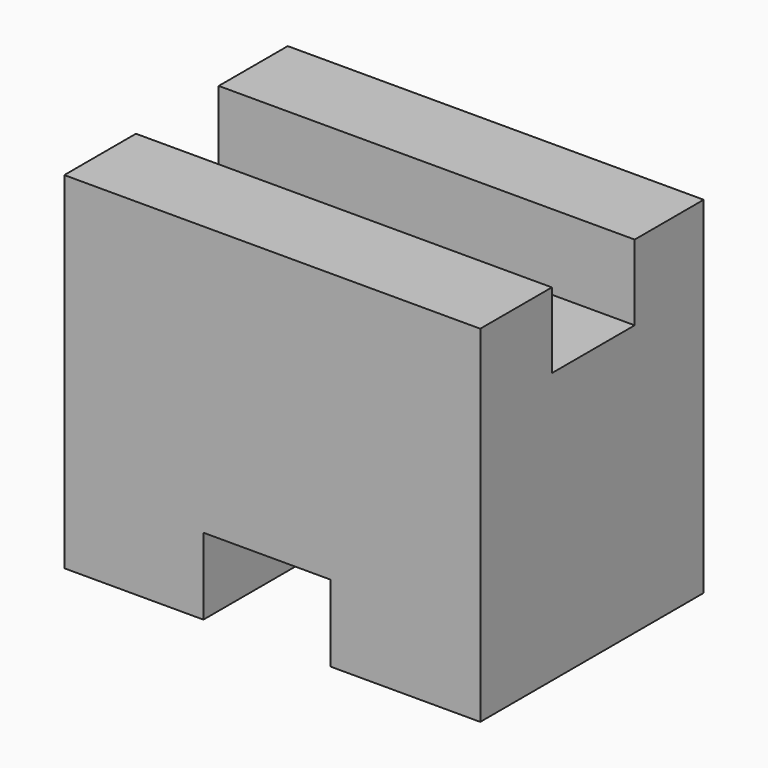
from build123d import *

# Parameters (mm, degrees)
F0_W     = 25.5834441632
F0_H     = 31.7076668143
F1_DEPTH = 38.1
F2_W     = 9.4826659188
F2_H     = 6.9144461304
F3_DEPTH = 38.1
F4_W     = 11.6557758301
F4_H     = 7.0132222027
F5_DEPTH = 38.1


with BuildPart() as f1:
    # F0 (on Right) → F1 (new body)
    with BuildSketch(Plane.YZ):
        with Locations((12.7917220816, 15.8538334072)):
            Rectangle(F0_W, F0_H)
        with Locations((12.7917220816, 15.8538334072)):
            Rectangle(F0_W, F0_H)
    extrude(amount=F1_DEPTH)

    # F2 (on face) → F3 (cut)
    with BuildSketch(Plane.YZ.offset(38.1)):
        with Locations((12.9398894496, 28.2504437491)):
            Rectangle(F2_W, F2_H)
    extrude(amount=-F3_DEPTH, mode=Mode.SUBTRACT)

    # F4 (on face) → F5 (cut)
    with BuildSketch(Plane.XZ):
        with Locations((18.5702228919, 3.5066111013)):
            Rectangle(F4_W, F4_H)
    extrude(amount=-F5_DEPTH, mode=Mode.SUBTRACT)


solid = f1.part
